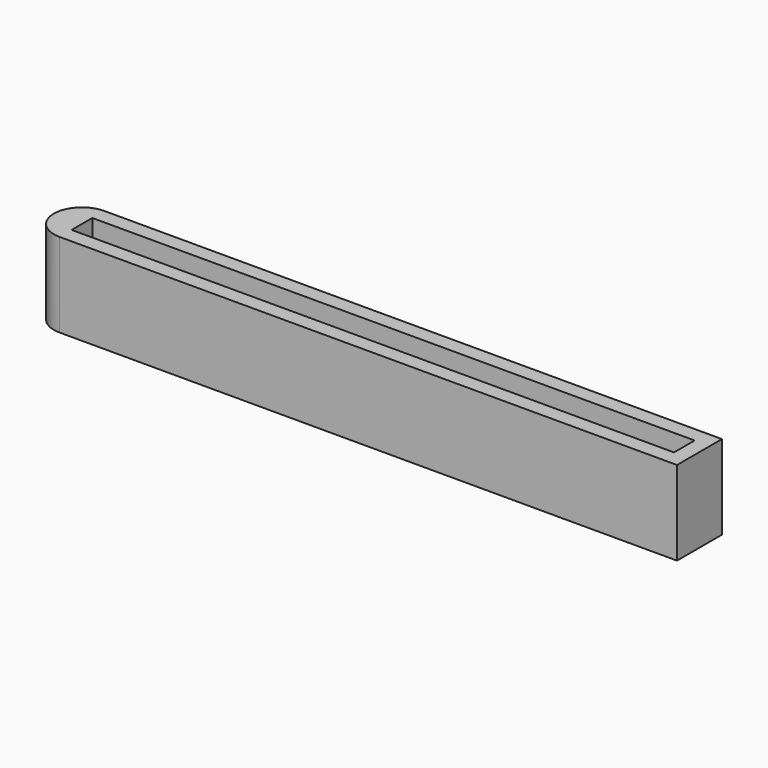
from build123d import *

# Parameters (mm, degrees)
F1_DEPTH = 15


with BuildPart() as f1:
    # F0 (on Top) → F1 (new body)
    with BuildSketch(Plane.XY):
        Polygon((-55, -2.3), (-55, -5), (55, -5), (55, 5), (-55, 5), (-55, 2.3), (52.3, 2.3), (52.3, -2.3), align=None)
        with BuildLine():
            ThreePointArc((-55, 5), (-60, 0), (-55, -5))
            Line((-55, -5), (-55, -2.3))
            ThreePointArc((-55, -2.3), (-57.3, 0), (-55, 2.3))
            Line((-55, 2.3), (-55, 5))
        make_face()
        with BuildLine():
            ThreePointArc((-55, 2.3), (-57.3, 0), (-55, -2.3))
            Line((-55, -2.3), (-55, 2.3))
        make_face()
    extrude(amount=F1_DEPTH)


solid = f1.part
